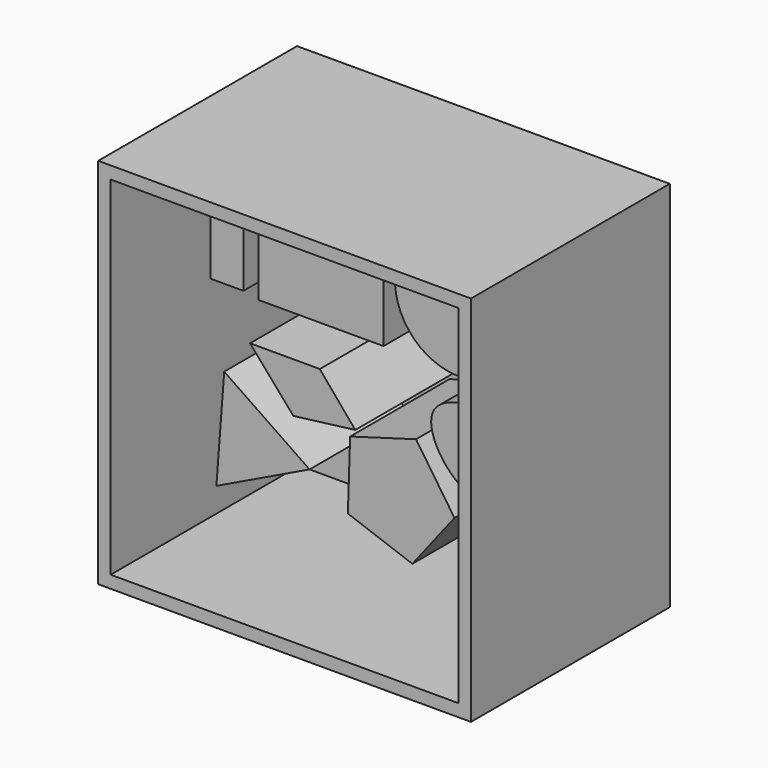
from build123d import *

# Parameters (mm, degrees)
F0_W      = 150.0115171075
F0_H      = 150.0115022063
F1_DEPTH  = 50
F2_DEPTH  = 50
F3_T      = -5
F4_W      = 50.3282439895
F4_H      = 50.0862784684
F5_DEPTH  = 50
F6_R      = 25.7006976181
F7_DEPTH  = 50
F9_DEPTH  = 50
F11_DEPTH = 50
F12_W     = 13.2862403989
F12_H     = 45.7488838583
F13_DEPTH = 50
F15_DEPTH = 50
F17_DEPTH = 50


with BuildPart() as f1:
    # F0 (on Front) → F1 (new body)
    with BuildSketch(Plane.XZ):
        with Locations((0.1207850873, -0.2415664494)):
            Rectangle(F0_W, F0_H)
    extrude(amount=F1_DEPTH)

    # F2 (add): a face of the model
    f2_faces = [f1.faces().sort_by_distance(p)[0] for p in [
        (0.1207850873, 0, -0.2415664494),
    ]]
    extrude(f2_faces, amount=F2_DEPTH)

    # F3
    f3_openings = [f1.faces().sort_by_distance(p)[0] for p in [
        (0.120785, -50, -0.241566),
    ]]
    offset(amount=F3_T, openings=f3_openings)

    # F4 (on face) → F5 (join)
    with BuildSketch(Plane.XZ.offset(-45)):
        with Locations((-21.2294475641, 41.4939280599)):
            Rectangle(F4_W, F4_H)
    extrude(amount=F5_DEPTH)

    # F6 (on face) → F7 (join)
    with BuildSketch(Plane.XZ.offset(-45)):
        with Locations((34.225974232, 41.3267239928)):
            Circle(F6_R)
    extrude(amount=F7_DEPTH)

    # F8 (on face) → F9 (join)
    with BuildSketch(Plane.XZ.offset(-45)):
        Polygon((-25.8233335135, -36.9013702446), (-60.1888511064, -13.4322265214), (-63.3309669793, -54.9282096326), align=None)
    extrude(amount=F9_DEPTH)

    # F10 (on face) → F11 (join)
    with BuildSketch(Plane.XZ.offset(-45)):
        Polygon((32.4785027368, -35.1417758495), (17.0084361272, -12.288266328), (-9.5070565099, -19.9390511614), (-10.4244655785, -47.5210057505), (15.5240370727, -56.9168063293), align=None)
    extrude(amount=F11_DEPTH)

    # F12 (on face) → F13 (join)
    with BuildSketch(Plane.XZ.offset(-45)):
        with Locations((-59.0873472393, 40.5877782032)):
            Rectangle(F12_W, F12_H)
    extrude(amount=F13_DEPTH)

    # F14 (on face) → F15 (join)
    with BuildSketch(Plane.XZ.offset(-45)):
        Polygon((-49.7810505331, 0), (-32.3597341776, -20.085580647), (-7.4375732802, -16.9400647283), (-21.7133741826, 0), align=None)
    extrude(amount=F15_DEPTH)

    # F16 (on face) → F17 (join)
    with BuildSketch(Plane.XZ.offset(-45)):
        with BuildLine():
            add(Edge.make_bspline(
                [(44.1004857421, -25.8926860988), (32.8076134685, -26.462876483), (5.9337500795, 8.9077984279), (73.1779523154, 9.3996996285), (54.7857295651, -25.3531755887), (44.1004857421, -25.8926860988)],
                knots=[0, 0, 0, 0, 0.3375027868, 0.6806570126, 1, 1, 1, 1], degree=3))
        make_face()
    extrude(amount=F17_DEPTH)


solid = f1.part
